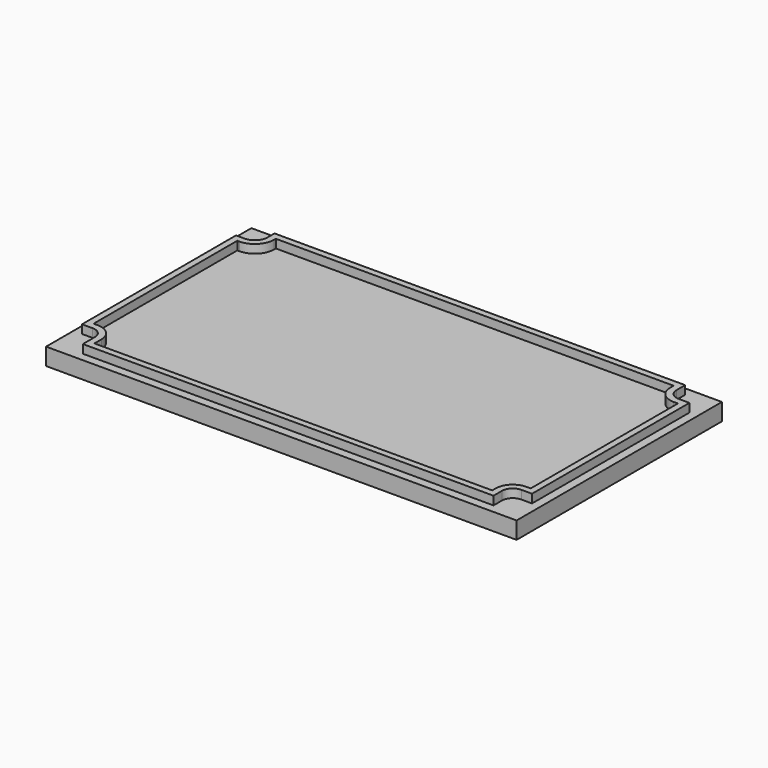
from build123d import *

# Parameters (mm, degrees)
F0_W     = 110
F0_H     = 60
F1_DEPTH = 4
F3_DEPTH = 2


with BuildPart() as f1:
    # F0 (on Top) → F1 (new body)
    with BuildSketch(Plane.XY):
        with Locations((55, 30)):
            Rectangle(F0_W, F0_H)
    extrude(amount=F1_DEPTH)

    # F2 (on face) → F3 (join)
    with BuildSketch(Plane.XY.offset(4)):
        with BuildLine():
            ThreePointArc((7, 56), (6.12132, 53.87868), (4, 53))
            Line((4, 53), (2, 53))
            Line((2, 53), (2, 8))
            Line((2, 8), (4.5, 8))
            ThreePointArc((4.5, 8), (6.267767, 7.267767), (7, 5.5))
            Line((7, 5.5), (7, 2))
            Line((7, 2), (103, 2))
            Line((103, 2), (103, 4.5))
            ThreePointArc((103, 4.5), (103.732233, 6.267767), (105.5, 7))
            Line((105.5, 7), (108, 7))
            Line((108, 7), (108, 53))
            Line((108, 53), (105.5, 53))
            ThreePointArc((105.5, 53), (103.732233, 53.732233), (103, 55.5))
            Line((103, 55.5), (103, 58))
            Line((103, 58), (7, 58))
            Line((7, 58), (7, 56))
        make_face()
        with BuildLine():
            Line((4.5, 9.5), (3.5, 9.5))
            Line((3.5, 9.5), (3.5, 51.5))
            Line((3.5, 51.5), (4, 51.5))
            ThreePointArc((4, 51.5), (7.181981, 52.818019), (8.5, 56))
            Line((8.5, 56), (8.5, 56.5))
            Line((8.5, 56.5), (101.5, 56.5))
            Line((101.5, 56.5), (101.5, 55.5))
            ThreePointArc((101.5, 55.5), (102.671573, 52.671573), (105.5, 51.5))
            Line((105.5, 51.5), (106.5, 51.5))
            Line((106.5, 51.5), (106.5, 8.5))
            Line((106.5, 8.5), (105.5, 8.5))
            ThreePointArc((105.5, 8.5), (102.671573, 7.328427), (101.5, 4.5))
            Line((101.5, 4.5), (101.5, 3.5))
            Line((101.5, 3.5), (8.5, 3.5))
            Line((8.5, 3.5), (8.5, 5.5))
            ThreePointArc((8.5, 5.5), (7.328427, 8.328427), (4.5, 9.5))
        make_face(mode=Mode.SUBTRACT)
    extrude(amount=F3_DEPTH)


solid = f1.part
